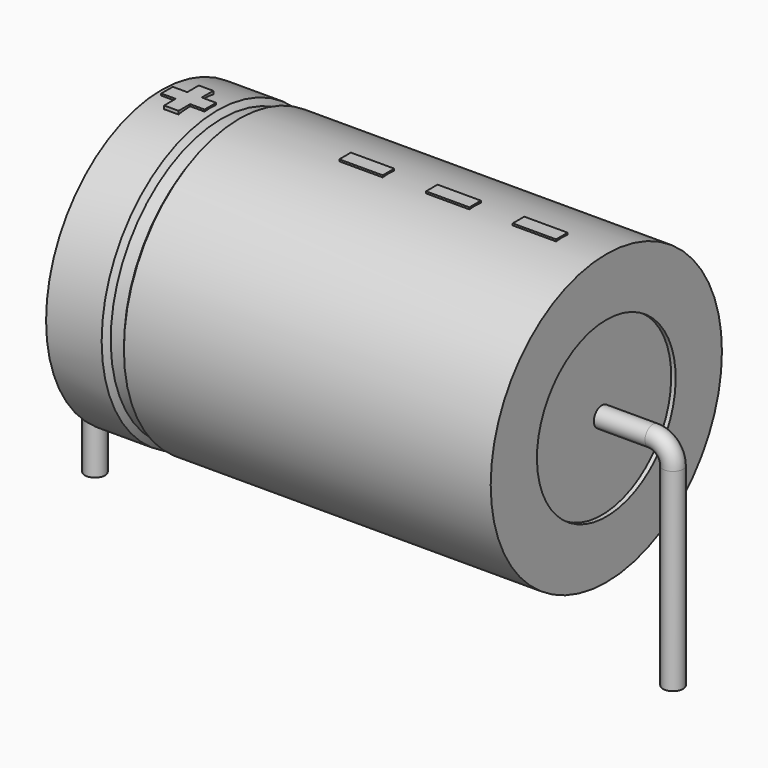
from build123d import *

# Parameters (mm, degrees)
SKETCH_R    = 0.45
SKETCH004_W = 1.95
SKETCH004_H = 0.65
PAD_DEPTH   = 6.565


with BuildPart() as sweep_body:
    # Sweep: sweep along a path in Sketch001
    with BuildLine(Plane.XZ) as sweep_path:
        Line((0, -3), (0, 5.7))
        ThreePointArc((0, 5.7), (0.2636, 6.336393), (0.89999, 6.6))
        Line((0.89999, 6.6), (25.1, 6.6))
        ThreePointArc((25.1, 6.6), (25.736396, 6.336396), (26, 5.7))
        Line((26, 5.7), (26, -3))
    # Sketch → Sweep (sweep)
    with BuildSketch(Plane.XY.offset(-2)):
        Circle(SKETCH_R)
    sweep(path=sweep_path.line)


with BuildPart() as revolution:
    # Sketch002 → Revolution (revolve)
    with BuildSketch(Plane.XZ):
        Polygon((3, 13.1), (3, 10.5), (23, 10.5), (23, 13.1), (6.5, 13.1), (6.3, 12.84), (5.7, 12.84), (5.5, 13.1), align=None)
    revolve(axis=Axis((6.97588, 0, 6.6), (1, 0, 0)))


with BuildPart() as revolution001:
    # Sketch003 → Revolution001 (revolve)
    with BuildSketch(Plane.XZ):
        Polygon((3.2, 12.84), (4.2, 12.84), (4.2, 7.25), (21.8, 7.25), (21.8, 12.84), (22.8, 12.84), (22.8, 6.6), (3.2, 6.6), align=None)
    revolve(axis=Axis((6.97588, 0, 6.6), (1, 0, 0)))


with BuildPart() as pad:
    # Sketch004 → Pad (new body)
    with BuildSketch(Plane.XY.offset(6.6)):
        with Locations((20.025, 0)):
            Rectangle(SKETCH004_W, SKETCH004_H)
        with Locations((16.125, 0)):
            Rectangle(SKETCH004_W, SKETCH004_H)
        with Locations((12.225, 0)):
            Rectangle(SKETCH004_W, SKETCH004_H)
        Polygon((3.89, 0.325), (3.24, 0.325), (3.24, -0.325), (3.89, -0.325), (3.89, -0.975), (4.54, -0.975), (4.54, -0.325), (5.19, -0.325), (5.19, 0.325), (4.54, 0.325), (4.54, 0.975), (3.89, 0.975), align=None)
    extrude(amount=PAD_DEPTH)


solid = Compound([sweep_body.part, revolution.part, revolution001.part, pad.part])
